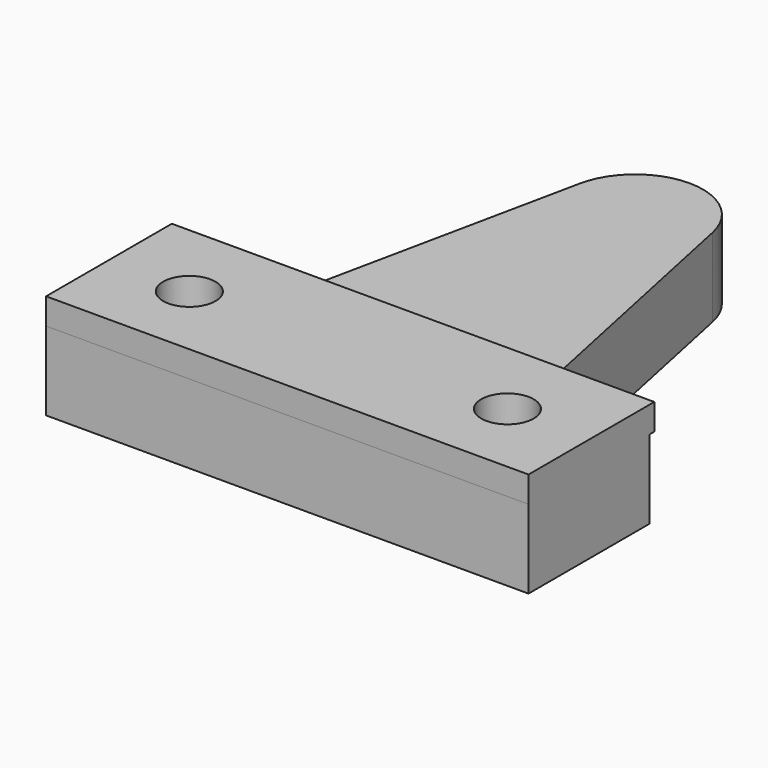
from build123d import *

# Parameters (mm, degrees)
SKETCH001_R  = 2
PAD_DEPTH    = 6
SKETCH_W     = 36.806358
SKETCH_H     = 11.992655
SKETCH_R     = 2
PAD001_DEPTH = 2


with BuildPart() as part:
    # Sketch001 → Pad (new body)
    with BuildSketch(Plane.XY):
        with BuildLine():
            Line((0, -2.099693), (18.403179, -2.099693))
            Line((18.403179, -2.099693), (18.403179, 9.456419))
            Line((18.403179, 9.456419), (9.817242, 9.456419))
            Line((9.817242, 9.456419), (5.063179, 32.132275))
            ThreePointArc((5.063179, 32.132275), (3.261221, 35.086612), (0, 36.244021))
            ThreePointArc((0, 36.244021), (-3.261221, 35.086611), (-5.063179, 32.132275))
            Line((-9.817242, 9.456419), (-5.063179, 32.132275))
            Line((-18.403179, 9.456419), (-9.817242, 9.456419))
            Line((-18.403179, -2.099693), (-18.403179, 9.456419))
            Line((0, -2.099693), (-18.403179, -2.099693))
        make_face()
        with Locations((-12.133414, 3.728143)):
            Circle(SKETCH001_R, mode=Mode.SUBTRACT)
        with Locations((12.133414, 3.728143)):
            Circle(SKETCH001_R, mode=Mode.SUBTRACT)
    extrude(amount=PAD_DEPTH)

    # Sketch → Pad001 (new body)
    with BuildSketch(Plane.XY.offset(6)):
        with Locations((0, 3.896634)):
            Rectangle(SKETCH_W, SKETCH_H)
        with Locations((-12.133414, 3.728143)):
            Circle(SKETCH_R, mode=Mode.SUBTRACT)
        with Locations((12.133414, 3.728143)):
            Circle(SKETCH_R, mode=Mode.SUBTRACT)
    extrude(amount=PAD001_DEPTH)


solid = part.part
